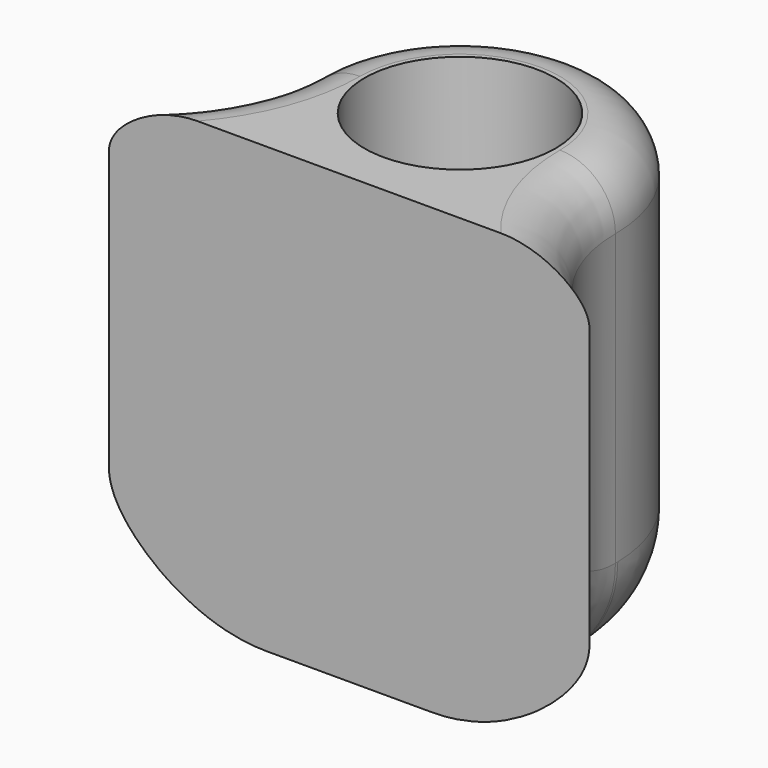
from build123d import *

# Parameters (mm, degrees)
SKETCH_R    = 4.3
PAD_DEPTH   = 20
FILLET_R    = 2.5
FILLET001_R = 5


with BuildPart() as part:
    # Sketch → Pad (new body)
    with BuildSketch(Plane.XY):
        with BuildLine():
            ThreePointArc((7, 0), (0, 7), (-7, 0))
            ThreePointArc((-10.818791, -6.235375), (-8.030558, -3.655922), (-7, 0))
            Line((-10.818791, -6.235375), (10.818791, -6.235375))
            ThreePointArc((7, 0), (8.030558, -3.655922), (10.818791, -6.235375))
        make_face()
        Circle(SKETCH_R, mode=Mode.SUBTRACT)
    extrude(amount=PAD_DEPTH)

    # Fillet
    fillet_edges = [part.edges().sort_by_distance(p)[0] for p in [
        (0, 7, 20),
        (8.030558, -3.655922, 20),
        (-8.030558, -3.655922, 20),
    ]]
    fillet(fillet_edges, radius=FILLET_R)

    # Fillet001
    fillet001_edges = [part.edges().sort_by_distance(p)[0] for p in [
        (0, 7, 0),
        (-8.030558, -3.655922, 0),
        (8.030558, -3.655922, 0),
    ]]
    fillet(fillet001_edges, radius=FILLET001_R)


solid = part.part
